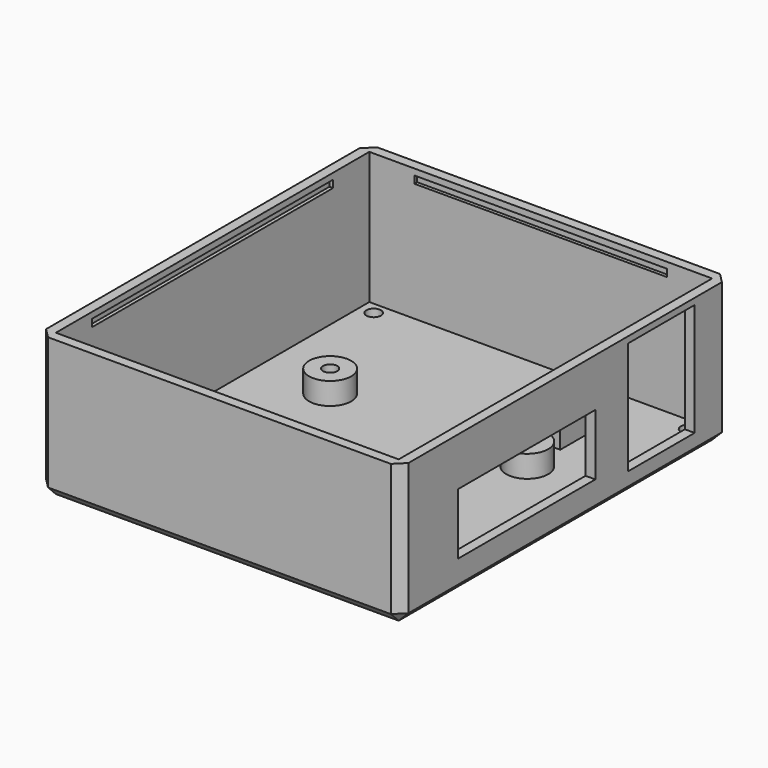
from build123d import *

# Parameters (mm, degrees)
PAD005_DEPTH    = 0.75
SKETCH003_W     = 70
SKETCH003_H     = 80
PAD003_DEPTH    = 27
THICKNESS_T     = 2
SKETCH005_W     = 35
SKETCH005_H     = 12.5
SKETCH005_W_2   = 17
SKETCH005_H_2   = 23
POCKET_DEPTH    = 5
CHAMFER_SIZE    = 2
SKETCH010_R     = 1.5
POCKET002_DEPTH = 5
SKETCH011_R     = 4.3
SKETCH011_R_2   = 1.45
PAD009_DEPTH    = 4.5
SKETCH012_W     = 3
SKETCH012_H     = 11
PAD010_DEPTH    = 7
SKETCH013_R     = 1.45
POCKET003_DEPTH = 5


with BuildPart() as pad005:
    # Sketch007 → Pad005 (new body, symmetric)
    with BuildSketch(Plane.XY.offset(19)):
        Polygon((-35.737, 39.45567), (-25.77877, 39.45567), (-25.77877, 49.4139), (25.77877, 49.4139), (25.77877, 39.45567), (35.737, 39.45567), (35.737, -22.04177), (25.77877, -22.04177), (25.77877, -32), (-25.77877, -32), (-25.77877, -22.04177), (-35.737, -22.04177), align=None)
    extrude(amount=PAD005_DEPTH, both=True)


with BuildPart() as chillermodule_case:
    # Sketch003 → Pad003 (new body)
    with BuildSketch(Plane.XY.offset(-6)):
        with Locations((0, 8.709674)):
            Rectangle(SKETCH003_W, SKETCH003_H)
    extrude(amount=PAD003_DEPTH)

    # Thickness
    thickness_openings = [chillermodule_case.faces().sort_by_distance(p)[0] for p in [
        (0, 8.709674, 21),
    ]]
    offset(amount=THICKNESS_T, openings=thickness_openings, kind=Kind.INTERSECTION)

    # Sketch005 → Pocket (cut)
    with BuildSketch(Plane.YZ.offset(37)):
        with Locations((-1.101604, 4.909958)):
            Rectangle(SKETCH005_W, SKETCH005_H)
        with Locations((33.258465, 8.215456)):
            Rectangle(SKETCH005_W_2, SKETCH005_H_2)
    extrude(amount=-POCKET_DEPTH, mode=Mode.SUBTRACT)

    # Chamfer
    chamfer_edges = [chillermodule_case.edges().sort_by_distance(p)[0] for p in [
        (0, -33.290326, -8),
        (37, 8.709674, -8),
        (37, -33.290326, 6.5),
        (-37, -33.290326, 6.5),
        (37, 50.709674, 6.5),
        (-37, 8.709674, -8),
        (-37, 50.709674, 6.5),
        (0, 50.709674, -8),
    ]]
    chamfer(chamfer_edges, length=CHAMFER_SIZE)

    # Cut: cut Pad005
    add(pad005.part, mode=Mode.SUBTRACT)

    # Sketch010 → Pocket002 (cut)
    with BuildSketch(Plane.XY.offset(-6)):
        with Locations((-32.1, 46.207886)):
            Circle(SKETCH010_R)
        with Locations((32.1, 46.207886)):
            Circle(SKETCH010_R)
        with Locations((32.1, -28.698038)):
            Circle(SKETCH010_R)
        with Locations((-32.1, -28.698038)):
            Circle(SKETCH010_R)
    extrude(amount=-POCKET002_DEPTH, mode=Mode.SUBTRACT)

    # Sketch011 → Pad009 (new body)
    with BuildSketch(Plane.XY.offset(-6)):
        with Locations((20.125536, -20.122694)):
            Circle(SKETCH011_R)
        with Locations((20.125536, -20.122694)):
            Circle(SKETCH011_R_2, mode=Mode.SUBTRACT)
        with Locations((-20.125536, -20.122694)):
            Circle(SKETCH011_R)
        with Locations((-20.125536, -20.122694)):
            Circle(SKETCH011_R_2, mode=Mode.SUBTRACT)
        with Locations((-20.125536, 20.122694)):
            Circle(SKETCH011_R)
        with Locations((-20.125536, 20.122694)):
            Circle(SKETCH011_R_2, mode=Mode.SUBTRACT)
        with Locations((20.125536, 20.122694)):
            Circle(SKETCH011_R)
        with Locations((20.125536, 20.122694)):
            Circle(SKETCH011_R_2, mode=Mode.SUBTRACT)
    extrude(amount=PAD009_DEPTH)

    # Sketch012 → Pad010 (new body)
    with BuildSketch(Plane.XY.offset(-6)):
        with Locations((19.14116, 33.381699)):
            Rectangle(SKETCH012_W, SKETCH012_H)
    extrude(amount=PAD010_DEPTH)

    # Sketch013 → Pocket003 (cut)
    with BuildSketch(Plane.XY.offset(-6)):
        with Locations((20.125536, 20.122694)):
            Circle(SKETCH013_R)
        with Locations((-20.125536, 20.122694)):
            Circle(SKETCH013_R)
        with Locations((-20.125536, -20.122694)):
            Circle(SKETCH013_R)
        with Locations((20.125536, -20.122694)):
            Circle(SKETCH013_R)
    extrude(amount=-POCKET003_DEPTH, mode=Mode.SUBTRACT)


solid = chillermodule_case.part
